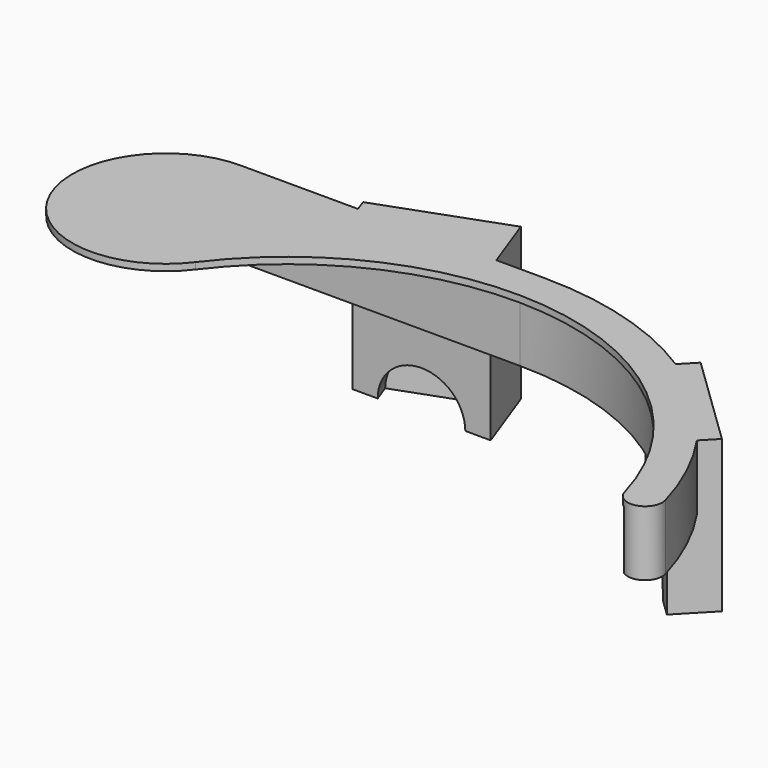
from build123d import *

# Parameters (mm, degrees)
PAD_DEPTH       = 15
SKETCH002_R     = 67
POCKET_DEPTH    = 13.5
POCKET001_DEPTH = 13.5
PAD001_DEPTH    = 35
PAD002_DEPTH    = 35
SKETCH_R        = 9.5
POCKET002_DEPTH = 45.1514534441
SKETCH007_R     = 9.5
POCKET003_DEPTH = 93.6873432021


with BuildPart() as part:
    # Sketch001 → Pad (new body)
    with BuildSketch(Plane.XY):
        with BuildLine():
            ThreePointArc((71.2460525222, 20), (44.7436533058, 58.9406946756), (0.1121090023, 73.9999150781))
            Line((0.1121090023, 73.9999150781), (-70, 74.1061334774))
            ThreePointArc((-69.9999999999, 74.1061334774), (-89.3215614177, 42.9266570301), (-52.7907882568, 39.6122793491))
            ThreePointArc((63.5437766663, 17.8378375087), (12.1424161228, 64.8734285413), (-52.7907882568, 39.6122793491))
            ThreePointArc((63.5437766663, 17.8378375087), (68.4759958054, 15.0677809492), (71.2460525222, 20))
        make_face()
    extrude(amount=PAD_DEPTH)

    # Sketch002 → Pocket (cut)
    with BuildSketch(Plane(origin=(0, 0, 0), x_dir=(1, 0, 0), z_dir=(0, 0, -1))):
        Circle(SKETCH002_R)
    extrude(amount=-POCKET_DEPTH, mode=Mode.SUBTRACT)

    # Sketch003 → Pocket001 (cut)
    with BuildSketch(Plane(origin=(0, 0, 0), x_dir=(1, 0, 0), z_dir=(0, 0, -1))):
        Polygon((-153.2553251378, -67.2322555451), (0.1014988729, -66.9999231192), (-35.4631, 35.7409), align=None)
    extrude(amount=-POCKET001_DEPTH, mode=Mode.SUBTRACT)

    # Sketch005 → Pad001 (new body)
    with BuildSketch(Plane.XY.offset(15)):
        Polygon((35.7520138156, 58.6156421796), (42.6985975202, 65.809040183), (64.2787915304, 44.9692890692), (57.3322078258, 37.7758910658), align=None)
    extrude(amount=-PAD001_DEPTH)

    # Sketch006 → Pad002 (new body)
    with BuildSketch(Plane.XY.offset(15)):
        Polygon((-41.8276469497, 71.0634495008), (-43.8797678097, 76.7016052255), (-15.6889891861, 86.9622095253), (-9.8847001983, 71.0150565952), align=None)
    extrude(amount=-PAD002_DEPTH)

    # Sketch → Pocket002 (cut, through all)
    with BuildSketch(Plane(origin=(46.5421108207, 48.1957666227, 0), x_dir=(0.7193398003, -0.6946583705, 0), z_dir=(-0.6946583705, -0.7193398003, 0))):
        with Locations((0, -20)):
            Circle(SKETCH_R)
    extrude(amount=-POCKET002_DEPTH, mode=Mode.SUBTRACT)

    # Sketch007 → Pocket003 (cut, through all)
    with BuildSketch(Plane(origin=(-28.4858461346, 78.2642190287, 0), x_dir=(-0.9396926208, -0.3420201433, 0), z_dir=(-0.3420201433, 0.9396926208, 0))):
        with Locations((0, -20)):
            Circle(SKETCH007_R)
    extrude(amount=-POCKET003_DEPTH, mode=Mode.SUBTRACT)


solid = part.part
